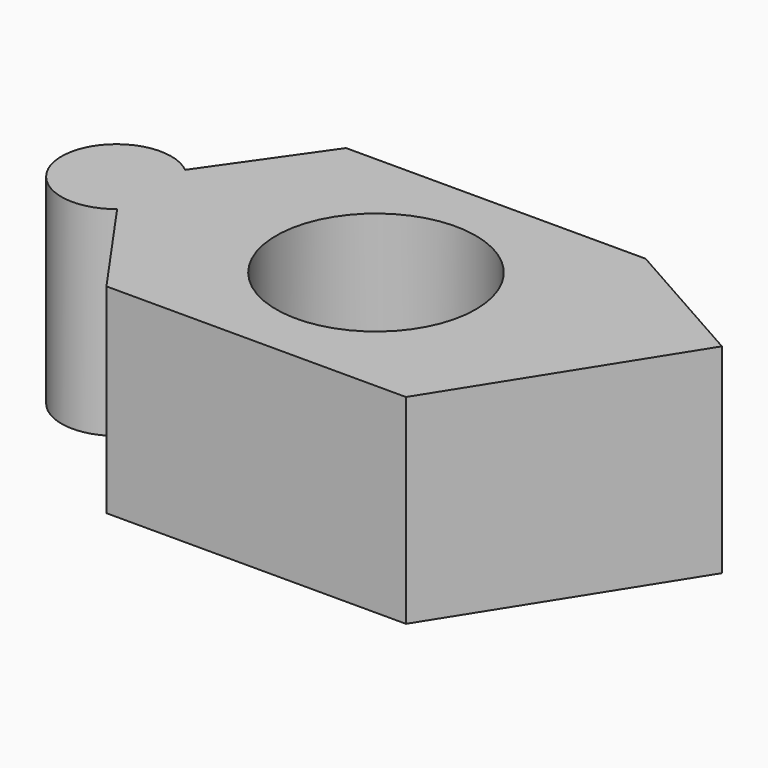
from build123d import *

# Parameters (mm, degrees)
F0_W     = 15
F0_H     = 15
F0_R     = 5
F1_DEPTH = 5
F3_DEPTH = 5
F5_DEPTH = 5


with BuildPart() as f1:
    # F0 (on Top) → F1 (new body, symmetric)
    with BuildSketch(Plane.XY):
        Rectangle(F0_W, F0_H)
        Circle(F0_R, mode=Mode.SUBTRACT)
    extrude(amount=F1_DEPTH, both=True)

    # F2 (on Top) → F3 (join, symmetric)
    with BuildSketch(Plane.XY):
        with BuildLine():
            Line((-7.5, 7.5), (-11.260282, 2.129761))
            ThreePointArc((-11.260282, 2.129761), (-15.75, 0), (-11.260282, -2.129761))
            Line((-11.260282, -2.129761), (-7.5, -7.5))
            Line((-7.5, -7.5), (-7.5, 7.5))
        make_face()
    extrude(amount=F3_DEPTH, both=True)

    # F4 (on Top) → F5 (join, symmetric)
    with BuildSketch(Plane.XY):
        Polygon((14.467447, 3.568756), (7.5, 7.5), (7.5, -7.5), align=None)
    extrude(amount=F5_DEPTH, both=True)


solid = f1.part
